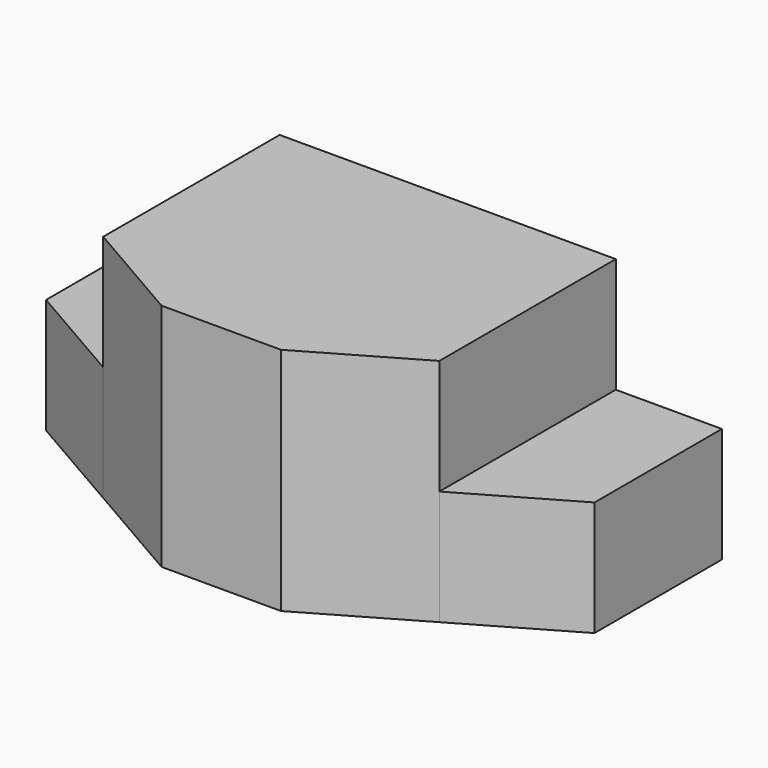
from build123d import *

# Parameters (mm, degrees)
F1_DEPTH = 13
F2_DEPTH = 26


with BuildPart() as f1:
    # F0 (on Top) → F1 (new body)
    with BuildSketch(Plane.XY):
        Polygon((0, 32), (0, 14), (12, 7.071797), (12, 32), align=None)
        Polygon((50, 32), (50, 7.071797), (62, 14), (62, 32), align=None)
        Polygon((12, 7.071797), (24.248711, 0), (37.751289, 0), (50, 7.071797), (50, 32), (12, 32), align=None)
    extrude(amount=F1_DEPTH)

    # F0 (on Top) → F2 (join)
    with BuildSketch(Plane.XY):
        Polygon((12, 7.071797), (24.248711, 0), (37.751289, 0), (50, 7.071797), (50, 32), (12, 32), align=None)
    extrude(amount=F2_DEPTH)


solid = f1.part
